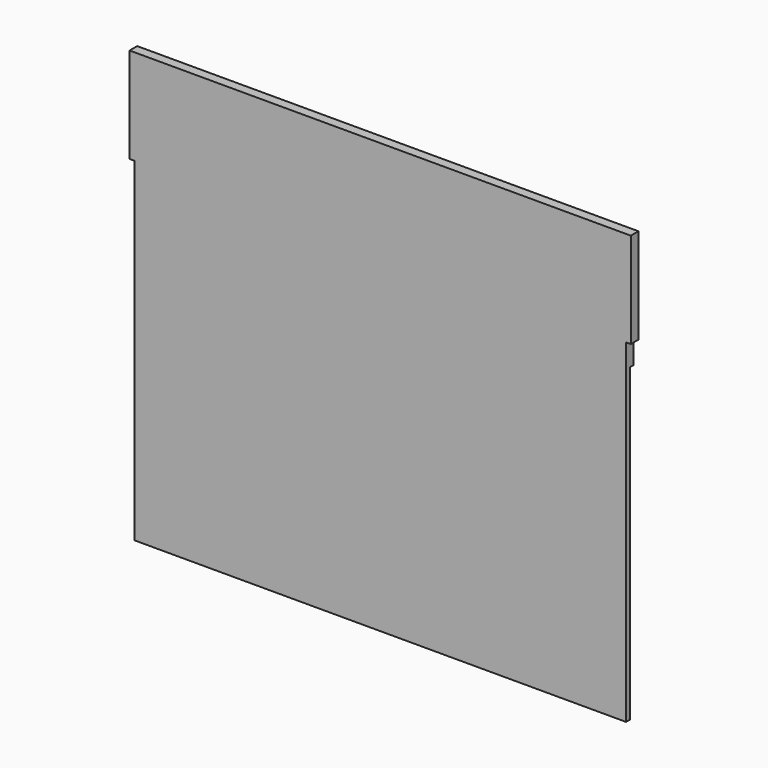
from build123d import *

# Parameters (mm, degrees)
F0_W     = 210
F0_H     = 40
F1_DEPTH = 4
F2_W     = 2
F2_H     = 2.005
F3_DEPTH = 140
F4_W     = 2
F4_H     = 1.995
F5_DEPTH = 10
F6_W     = 2
F6_H     = 1.995
F7_DEPTH = 10


with BuildPart() as f1:
    # F0 (on Front) → F1 (new body)
    with BuildSketch(Plane.XZ):
        with Locations((18.386809, 24.299242)):
            Rectangle(F0_W, F0_H)
    extrude(amount=F1_DEPTH)

    # F2 (on face) → F3 (join)
    with BuildSketch(Plane(origin=(0, 0, 4.299242), x_dir=(1, 0, 0), z_dir=(0, 0, -1))):
        with Locations((-83.608191, 2.9975)):
            Rectangle(F2_W, F2_H)
        Polygon((-82.608191, 4), (-82.608191, 1.995), (-82.608191, 0), (119.381809, 0), (119.381809, 1.995), (119.381809, 4), align=None)
        with Locations((120.381809, 2.9975)):
            Rectangle(F2_W, F2_H)
    extrude(amount=F3_DEPTH)

    # F4 (on face) → F5 (join)
    with BuildSketch(Plane(origin=(0, 0, 4.299242), x_dir=(1, 0, 0), z_dir=(0, 0, -1))):
        with Locations((120.381809, 0.9975)):
            Rectangle(F4_W, F4_H)
        with Locations((120.381809, 0.9975)):
            Rectangle(F4_W, F4_H)
    extrude(amount=F5_DEPTH)

    # F6 (on face) → F7 (join)
    with BuildSketch(Plane(origin=(0, 0, 4.299242), x_dir=(1, 0, 0), z_dir=(0, 0, -1))):
        with Locations((-83.608191, 0.9975)):
            Rectangle(F6_W, F6_H)
    extrude(amount=F7_DEPTH)


solid = f1.part
